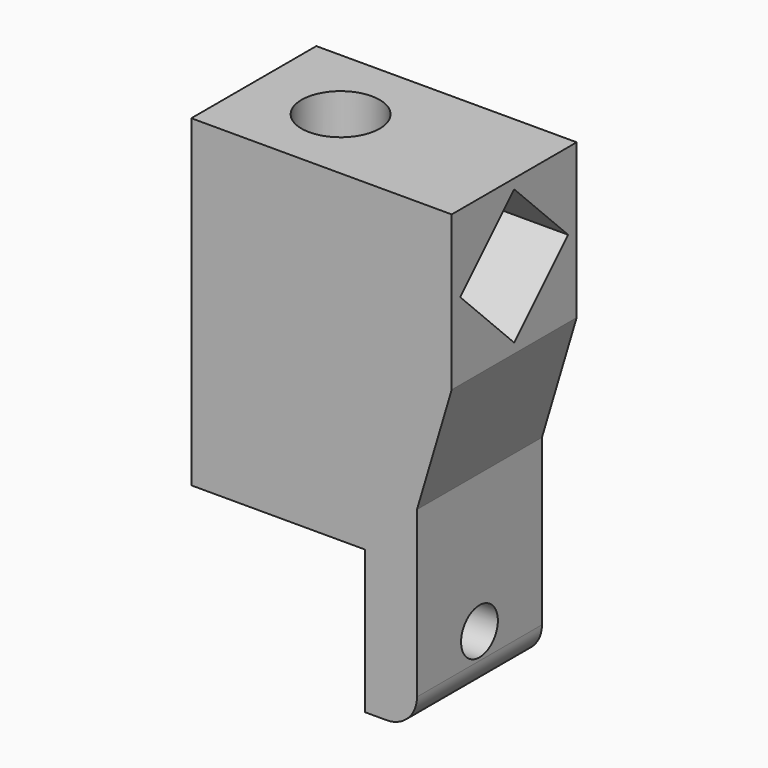
from build123d import *

# Parameters (mm, degrees)
PAD015_DEPTH         = 9
SKETCH051_R          = 2.65
POCKET023_DEPTH      = 37.240539
POCKET023_DEPTH_BACK = 16.501
SKETCH052_R          = 2.65
POCKET024_DEPTH      = 25.001
POCKET024_DEPTH_BACK = 5.001
SKETCH053_R          = 4.5
POCKET025_DEPTH      = 31.240539
SKETCH055_R          = 2.15
POCKET026_DEPTH      = 30.001
POCKET031_DEPTH      = 20.001


with BuildPart() as part:
    # Sketch047 → Pad015 (new body, symmetric)
    with BuildSketch(Plane(origin=(0, 0, 0), x_dir=(-1, 0, 0), z_dir=(0, 1, 0))):
        with BuildLine():
            Line((-22.5, -16.5), (-20, -16.5))
            Line((-20, -16.5), (-20, 0))
            Line((-20, 0), (0, 0))
            Line((0, 0), (0, 6))
            Line((0, 6), (0, 37.239539))
            Line((-30, 37.239539), (0, 37.239539))
            Line((-30, 19.460461), (-30, 37.239539))
            Line((-30, 19.460461), (-26, 6))
            Line((-26, 6), (-26, -13))
            ThreePointArc((-26, -13), (-24.974874, -15.474874), (-22.5, -16.5))
        make_face()
    extrude(amount=PAD015_DEPTH, both=True)

    # Sketch051 → Pocket023 (cut, two sides)
    with BuildSketch(Plane(origin=(10, 0, 0), x_dir=(1, 0, 0), z_dir=(0, 0, 1))) as pocket023_sk:
        Circle(SKETCH051_R)
    extrude(amount=POCKET023_DEPTH, mode=Mode.SUBTRACT)
    extrude(pocket023_sk.sketch, amount=-POCKET023_DEPTH_BACK, mode=Mode.SUBTRACT)

    # Sketch052 → Pocket024 (cut, two sides)
    with BuildSketch(Plane(origin=(25, 0, -10), x_dir=(0, 1, 0), z_dir=(1, 0, 0))) as pocket024_sk:
        Circle(SKETCH052_R)
    extrude(amount=-POCKET024_DEPTH, mode=Mode.SUBTRACT)
    extrude(pocket024_sk.sketch, amount=POCKET024_DEPTH_BACK, mode=Mode.SUBTRACT)

    # Sketch053 → Pocket025 (cut, through all)
    with BuildSketch(Plane(origin=(10, 0, 6), x_dir=(1, 0, 0), z_dir=(0, 0, 1))):
        Circle(SKETCH053_R)
    extrude(amount=POCKET025_DEPTH, mode=Mode.SUBTRACT)

    # Sketch055 → Pocket026 (cut, through all)
    with BuildSketch(Plane(origin=(0, 0, 0), x_dir=(0, -1, 0), z_dir=(-1, 0, 0))):
        with Locations((0, 28.35)):
            Circle(SKETCH055_R)
    extrude(amount=-POCKET026_DEPTH, mode=Mode.SUBTRACT)

    # Sketch066 → Pocket031 (cut, through all)
    with BuildSketch(Plane(origin=(10, 0, 28.35), x_dir=(0, 1, 0), z_dir=(1, 0, 0))):
        Polygon((-7.778175, 0), (0, 7.778175), (7.778175, 0), (0, -7.778175), align=None)
    extrude(amount=POCKET031_DEPTH, mode=Mode.SUBTRACT)


solid = part.part
